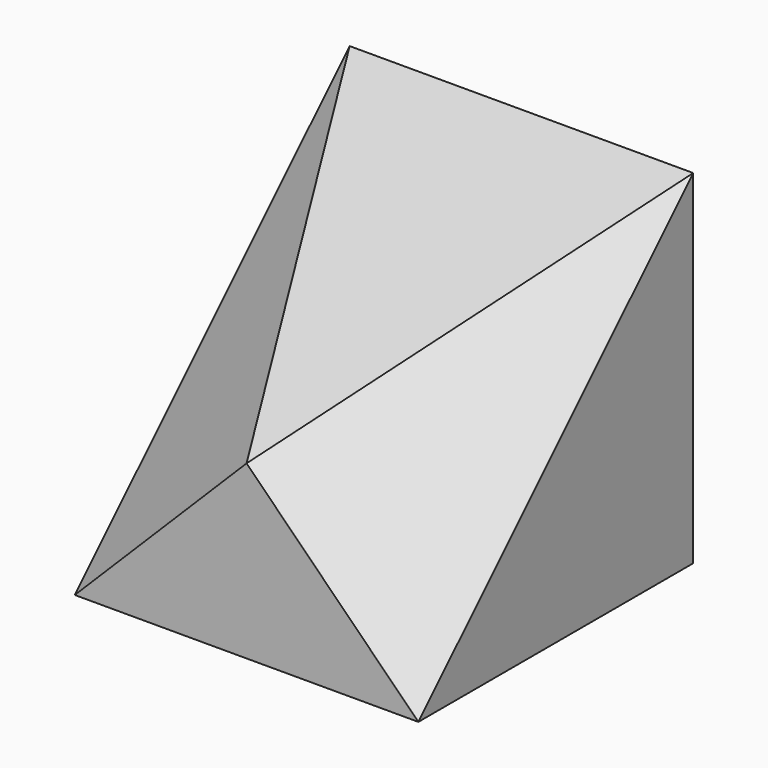
from build123d import *

# Parameters (mm, degrees)
F1_DEPTH = 20
F4_W     = 74.543075636
F4_H     = 79.5415919274
F5_DEPTH = 23.0950107676
F7_W     = 62.1554479003
F7_H     = 78.672291711
F8_DEPTH = 25


with BuildPart() as f1:
    # F0 (on Right) → F1 (new body, symmetric)
    with BuildSketch(Plane.YZ):
        Polygon((0, 20), (0, 0), (40, 0), (40, 40), align=None)
    extrude(amount=F1_DEPTH, both=True)

    # F4 (on 3pt) → F5 (cut, through all)
    with BuildSketch(Plane(origin=(6.6666666667, -6.6666666667, 6.6666666667), x_dir=(0.8164965809, 0.4082482905, -0.4082482905), z_dir=(0.5773502692, -0.5773502692, 0.5773502692))):
        with Locations((13.7506006286, 22.7511608973)):
            Rectangle(F4_W, F4_H)
    extrude(amount=F5_DEPTH, mode=Mode.SUBTRACT)

    # F7 (on 3pt) → F8 (cut)
    with BuildSketch(Plane(origin=(-6.6666666667, -6.6666666667, 6.6666666667), x_dir=(0.8164965809, -0.4082482905, 0.4082482905), z_dir=(-0.5773502692, -0.5773502692, 0.5773502692))):
        with Locations((-10.0513882935, 28.4373825416)):
            Rectangle(F7_W, F7_H)
    extrude(amount=F8_DEPTH, mode=Mode.SUBTRACT)


solid = f1.part
